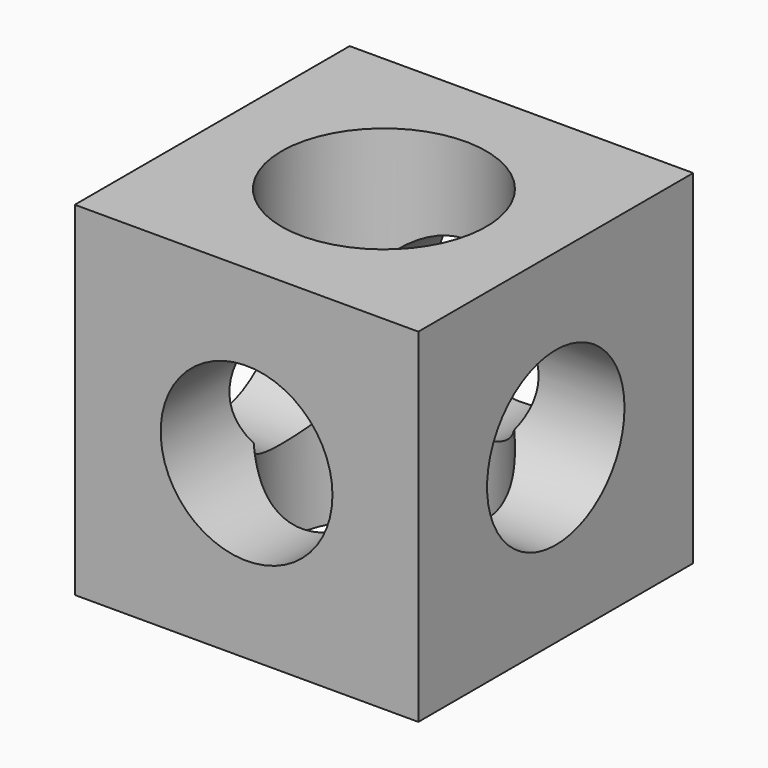
from build123d import *

# Parameters (mm, degrees)
F0_W     = 20
F0_H     = 20
F1_DEPTH = 20
F3_DEPTH = 20
F5_DEPTH = 20
F6_R     = 5
F7_DEPTH = 20


with BuildPart() as f1:
    # F0 (on Top) → F1 (new body)
    with BuildSketch(Plane.XY):
        with Locations((10, 10)):
            Rectangle(F0_W, F0_H)
    extrude(amount=F1_DEPTH)

    # F2 (on face) → F3 (cut)
    with BuildSketch(Plane.XY.offset(20)):
        with BuildLine():
            Line((4.0428322988, 9.9974628538), (15.9571677012, 9.9974628538))
            ThreePointArc((15.9571677012, 9.9974628538), (10, 15.954630555), (4.0428322988, 9.9974628538))
        make_face()
        with BuildLine():
            ThreePointArc((4.0428322988, 9.9974628538), (10, 4.0402951526), (15.9571677012, 9.9974628538))
            Line((15.9571677012, 9.9974628538), (4.0428322988, 9.9974628538))
        make_face()
    extrude(amount=-F3_DEPTH, mode=Mode.SUBTRACT)

    # F4 (on face) → F5 (cut)
    with BuildSketch(Plane(origin=(0, 20, 0), x_dir=(-1, 0, 0), z_dir=(0, 1, 0))):
        with BuildLine():
            Line((-15, 10), (-5, 10))
            ThreePointArc((-5, 10), (-10, 15), (-15, 10))
        make_face()
        with BuildLine():
            ThreePointArc((-15, 10), (-10, 5), (-5, 10))
            Line((-5, 10), (-15, 10))
        make_face()
    extrude(amount=-F5_DEPTH, mode=Mode.SUBTRACT)

    # F6 (on face) → F7 (cut)
    with BuildSketch(Plane.YZ.offset(20)):
        with Locations((10, 10)):
            Circle(F6_R)
    extrude(amount=-F7_DEPTH, mode=Mode.SUBTRACT)


solid = f1.part
